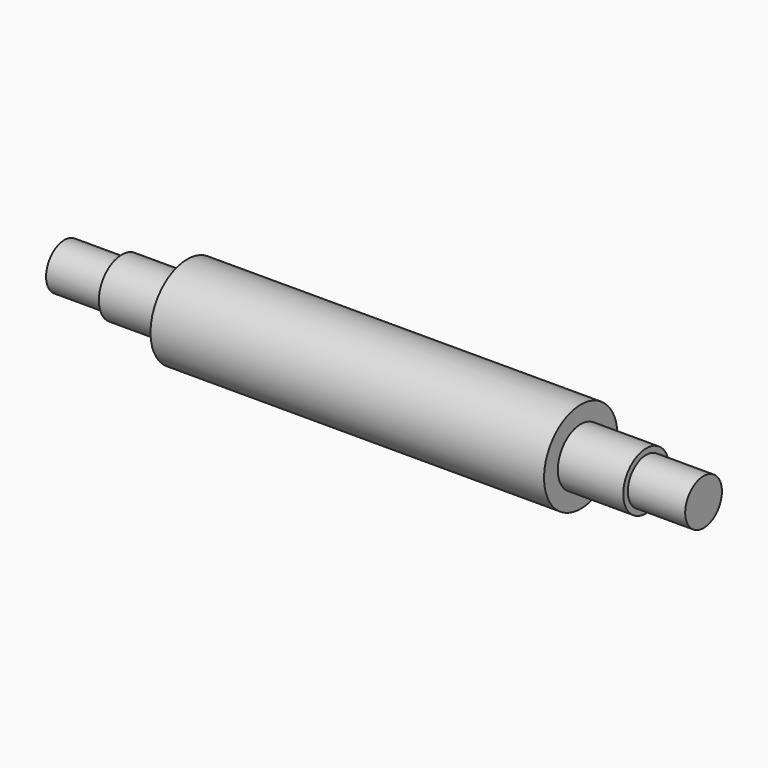
from build123d import *

# Parameters (mm, degrees)
F0_R     = 20
F1_DEPTH = 171.5
F2_R     = 12.5
F3_DEPTH = 28.52
F4_R     = 12.5
F5_DEPTH = 28.52
F6_R     = 10
F7_DEPTH = 25
F8_R     = 10
F9_DEPTH = 25


with BuildPart() as f1:
    # F0 (on Right) → F1 (new body)
    with BuildSketch(Plane.YZ):
        Circle(F0_R)
    extrude(amount=F1_DEPTH)

    # F2 (on face) → F3 (join)
    with BuildSketch(Plane(origin=(0, 0, 0), x_dir=(0, -1, 0), z_dir=(-1, 0, 0))):
        Circle(F2_R)
    extrude(amount=F3_DEPTH)

    # F4 (on face) → F5 (join)
    with BuildSketch(Plane.YZ.offset(171.5)):
        Circle(F4_R)
    extrude(amount=F5_DEPTH)

    # F6 (on face) → F7 (join)
    with BuildSketch(Plane(origin=(-28.52, 0, 0), x_dir=(0, -1, 0), z_dir=(-1, 0, 0))):
        Circle(F6_R)
    extrude(amount=F7_DEPTH)

    # F8 (on face) → F9 (join)
    with BuildSketch(Plane.YZ.offset(200.02)):
        Circle(F8_R)
    extrude(amount=F9_DEPTH)


solid = f1.part
